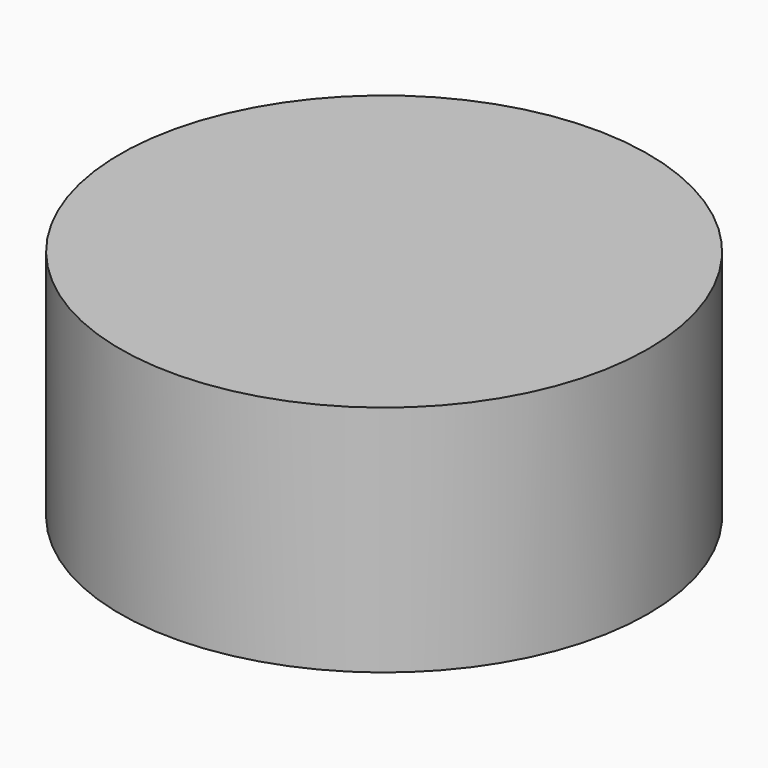
from build123d import *

# Parameters (mm, degrees)
CYLINDER_R     = 16.9799
CYLINDER_DEPTH = 15


with BuildPart() as part:
    # Cylinder → Cylinder (new body)
    with BuildSketch(Plane.XY.offset(-2.5)):
        Circle(CYLINDER_R)
    extrude(amount=CYLINDER_DEPTH)


solid = part.part
